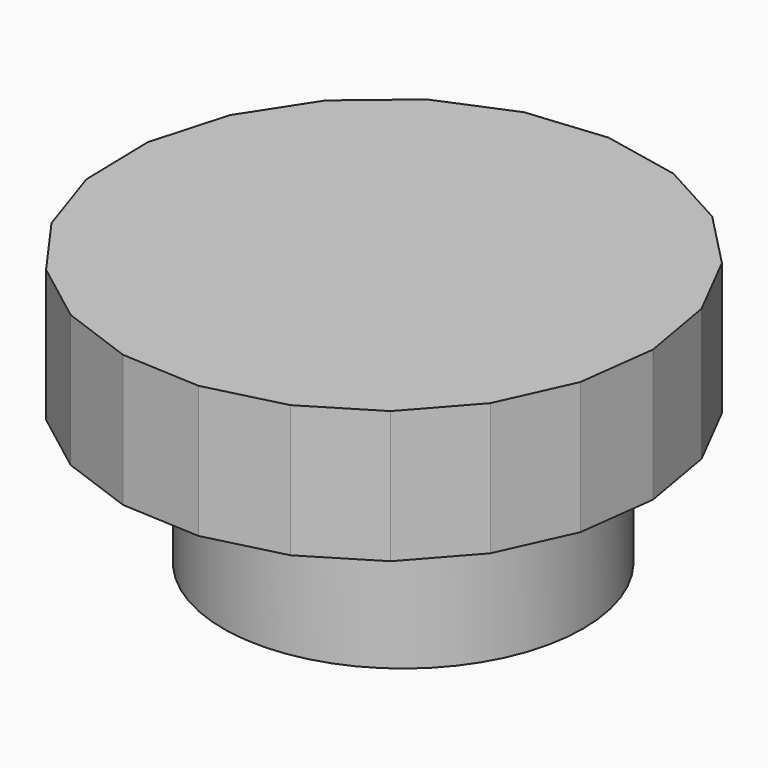
from build123d import *

# Parameters (mm, degrees)
F0_R     = 34.032564
F1_DEPTH = 25
F3_DEPTH = 25


with BuildPart() as f1:
    # F0 (on Top) → F1 (new body)
    with BuildSketch(Plane.XY):
        with Locations((3.729817, 0)):
            Circle(F0_R)
    extrude(amount=F1_DEPTH)

    # F2 (on face) → F3 (join)
    with BuildSketch(Plane.XY.offset(25)):
        Polygon((2.597546, 49.992847), (-12.253506, 48.537445), (-26.015781, 42.769278), (-37.466439, 33.200873), (-45.588039, 20.682425), (-49.658942, 6.326253), (-49.31743, -8.592035), (-44.593849, -22.746883), (-35.907907, -34.880571), (-24.031391, -43.914966), (-10.01958, -49.047324), (4.882514, -49.821613), (19.350776, -46.169032), (32.099636, -38.41413), (41.996303, -27.245964), (48.161414, -13.656875), (50.047172, 1.145688), (47.486019, 15.846451), (40.705525, 29.139187), (30.308167, 39.842779), (17.217794, 47.006165), align=None)
    extrude(amount=F3_DEPTH)


solid = f1.part
